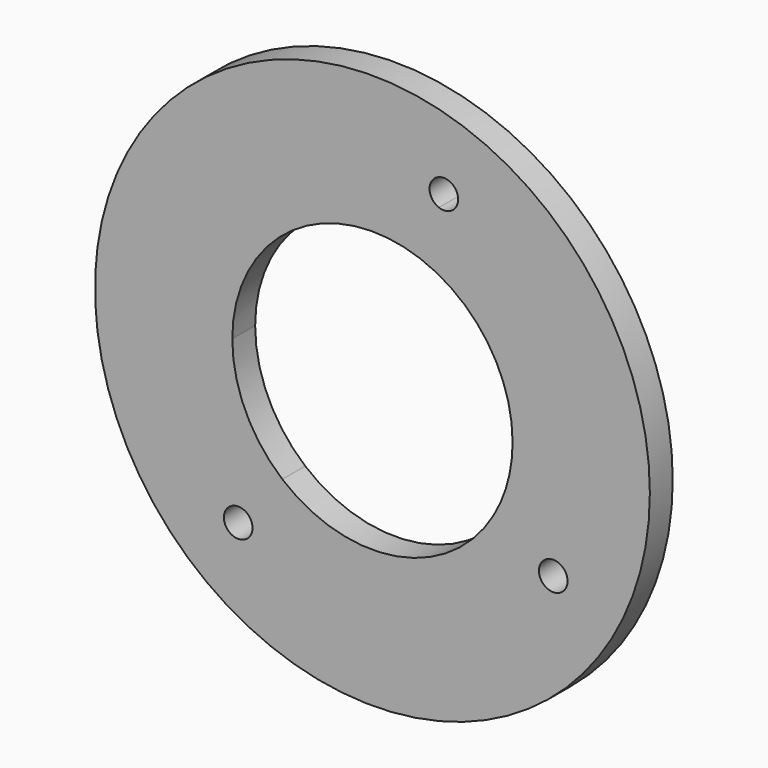
from build123d import *

# Parameters (mm, degrees)
F0_R     = 48.5
F1_DEPTH = 5


with BuildPart() as f1:
    # F0 (on Front) → F1 (new body)
    with BuildSketch(Plane.XZ):
        Circle(F0_R)
        with BuildLine():
            ThreePointArc((-20.961748, -27.960622), (-25.727517, -29.017168), (-21.854779, -26.045511))
            ThreePointArc((-21.854779, -26.045511), (-21.195978, -26.904077), (-20.961748, -27.960622))
        make_face(mode=Mode.SUBTRACT)
        with BuildLine():
            ThreePointArc((34.109927, -18.25), (30.96288, -20.664815), (29.444864, -17))
            ThreePointArc((29.444864, -17), (32.256975, -15.835185), (34.109927, -18.25))
        make_face(mode=Mode.SUBTRACT)
        with BuildLine():
            ThreePointArc((-15.748296, -18.768089), (-22.204541, -10.354147), (-24.5, 0))
            ThreePointArc((-24.5, 0), (-14.052623, 20.069225), (8.379494, 23.022469))
            ThreePointArc((8.379494, 23.022469), (20.069225, 14.052623), (24.5, 0))
            ThreePointArc((24.5, 0), (23.665183, -6.341067), (21.217622, -12.25))
            ThreePointArc((21.217622, -12.25), (4.25438, -24.12779), (-15.748296, -18.768089))
        make_face(mode=Mode.SUBTRACT)
        with BuildLine():
            ThreePointArc((14.983735, 34.298781), (13.917676, 32.250901), (11.628685, 31.949549))
            ThreePointArc((11.628685, 31.949549), (11.049794, 36.346661), (14.983735, 34.298781))
        make_face(mode=Mode.SUBTRACT)
    extrude(amount=F1_DEPTH)


solid = f1.part
